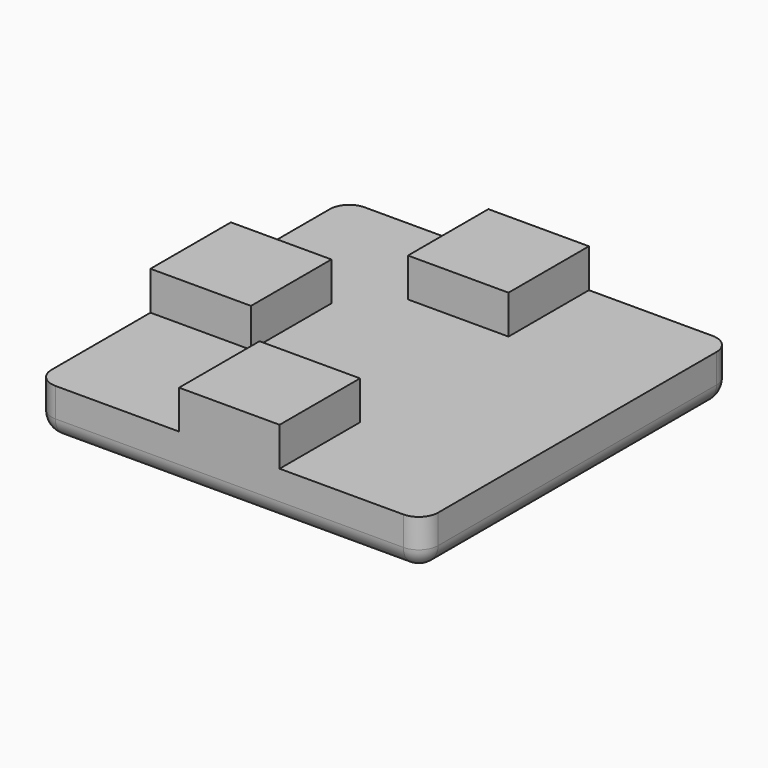
from build123d import *

# Parameters (mm, degrees)
BOX001_W     = 5.2
BOX001_H     = 5.2
BOX001_DEPTH = 3
BOX003_W     = 5.2
BOX003_H     = 5.2
BOX003_DEPTH = 3
BOX002_W     = 5.2
BOX002_H     = 5.2
BOX002_DEPTH = 3
BOX_W        = 20
BOX_H        = 20
BOX_DEPTH    = 2.5
FILLET_R     = 1
FILLET001_R  = 1


with BuildPart() as obj1:
    # Box001 → Box001 (new body)
    with BuildSketch(Plane(origin=(7.4, 0, 1.5), x_dir=(1, 0, 0), z_dir=(0, 0, 1))):
        with Locations((2.6, 2.6)):
            Rectangle(BOX001_W, BOX001_H)
    extrude(amount=BOX001_DEPTH)


with BuildPart() as obj2:
    # Box003 → Box003 (new body)
    with BuildSketch(Plane(origin=(0, 7.4, 1.5), x_dir=(1, 0, 0), z_dir=(0, 0, 1))):
        with Locations((2.6, 2.6)):
            Rectangle(BOX003_W, BOX003_H)
    extrude(amount=BOX003_DEPTH)


with BuildPart() as obj3:
    # Box002 → Box002 (new body)
    with BuildSketch(Plane(origin=(7.4, 14.8, 1.5), x_dir=(1, 0, 0), z_dir=(0, 0, 1))):
        with Locations((2.6, 2.6)):
            Rectangle(BOX002_W, BOX002_H)
    extrude(amount=BOX002_DEPTH)


with BuildPart() as fusion:
    # Box → Box (new body)
    with BuildSketch(Plane.XY):
        with Locations((10, 10)):
            Rectangle(BOX_W, BOX_H)
    extrude(amount=BOX_DEPTH)

    # Fillet
    fillet_edges = [fusion.edges().sort_by_distance(p)[0] for p in [
        (0, 0, 1.25),
        (0, 20, 1.25),
        (20, 0, 1.25),
        (20, 20, 1.25),
    ]]
    fillet(fillet_edges, radius=FILLET_R)

    # Fillet001
    fillet001_edges = [fusion.edges().sort_by_distance(p)[0] for p in [
        (0, 10, 0),
        (0.292893, 0.292893, 0),
        (0.292893, 19.707107, 0),
        (10, 0, 0),
        (10, 20, 0),
        (19.707107, 0.292893, 0),
        (19.707107, 19.707107, 0),
        (20, 10, 0),
    ]]
    fillet(fillet001_edges, radius=FILLET001_R)

    # Fusion: union obj1, obj2, obj3
    add(obj1.part)
    add(obj2.part)
    add(obj3.part)


solid = fusion.part
